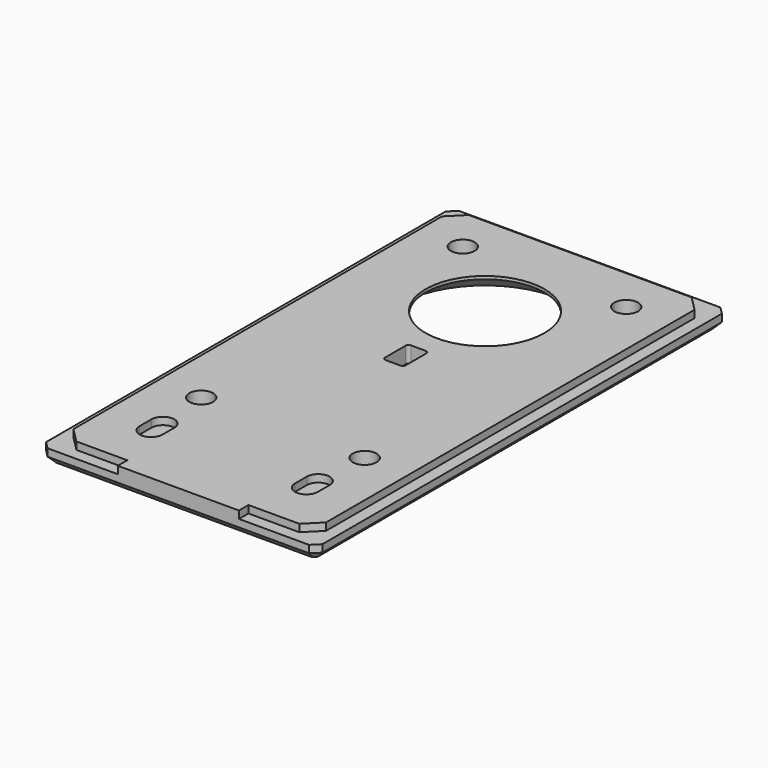
from build123d import *

# Parameters (mm, degrees)
PAD007_DEPTH     = 0.5
PAD008_DEPTH     = 1
SKETCH013_W      = 8.15
SKETCH013_H      = 0.5
PAD009_DEPTH     = 0.8
CHAMFER002_SIZE  = 0.5
HOLE_D           = 1.6
HOLE_DEPTH       = 25
HOLE_CSINK_D     = 2.5
HOLE_CSINK_ANGLE = 90
POCKET003_DEPTH  = 1.1
SKETCH016_R      = 4
POCKET004_DEPTH  = 5
POCKET005_DEPTH  = 0.5
CHAMFER006_SIZE2 = 1.3
CHAMFER006_SIZE  = 1.8


with BuildPart() as part:
    # Sketch011 (on Face14 of Binder001) → Pad007 (new body)
    with BuildSketch(Plane(origin=(0, 0, 0), x_dir=(1, 0, 0), z_dir=(0, 0, -1))):
        Polygon((16, -31), (16, 0), (15, 1), (0, 1), (-1, 0), (-1, -31), (0, -32), (15, -32), align=None)
    extrude(amount=PAD007_DEPTH)

    # Sketch012 (on Face10 of Pad007) → Pad008 (join)
    with BuildSketch(Plane(origin=(0, 0, -0.5), x_dir=(1, 0, 0), z_dir=(0, 0, -1))):
        Polygon((-1.3, 1.8), (-1.8, 1.3), (-1.8, -32.3), (-1.3, -32.8), (16.3, -32.8), (16.8, -32.3), (16.8, 1.3), (16.3, 1.8), align=None)
    extrude(amount=PAD008_DEPTH)

    # Sketch013 (on Face7 of Pad008) → Pad009 (join)
    with BuildSketch(Plane.XZ.offset(1)):
        with Locations((7.5, -0.25)):
            Rectangle(SKETCH013_W, SKETCH013_H)
    extrude(amount=PAD009_DEPTH)

    # Chamfer002
    chamfer002_edges = [part.edges().sort_by_distance(p)[0] for p in [
        (-1.55, -1.55, -1.5),
        (-1.8, 15.5, -1.5),
        (-1.55, 32.55, -1.5),
        (7.5, 32.8, -1.5),
        (16.55, 32.55, -1.5),
        (16.8, 15.5, -1.5),
        (16.55, -1.55, -1.5),
        (7.5, -1.8, -1.5),
    ]]
    chamfer(chamfer002_edges, length=CHAMFER002_SIZE)

    # Hole
    with Locations(Plane(origin=(0, 0, -1.5), x_dir=(1, 0, 0), z_dir=(0, 0, -1))):
        with Locations((2, -7), (13, -7), (2, -29), (13, -29)):
            CounterSinkHole(HOLE_D / 2, HOLE_CSINK_D / 2, depth=HOLE_DEPTH, counter_sink_angle=HOLE_CSINK_ANGLE)

    # Sketch015 (on Face9 of Hole) → Pocket003 (cut)
    with BuildSketch(Plane.XY):
        with BuildLine():
            Line((8.1, 16.58), (8.1, 18.32))
            ThreePointArc((8.1, 18.32), (8.041421, 18.461421), (7.9, 18.52))
            Line((7.9, 18.52), (6.9, 18.52))
            ThreePointArc((6.9, 18.52), (6.758579, 18.461421), (6.7, 18.32))
            Line((6.7, 18.32), (6.7, 16.58))
            ThreePointArc((6.7, 16.58), (6.758579, 16.438579), (6.9, 16.38))
            Line((6.9, 16.38), (7.9, 16.38))
            ThreePointArc((7.9, 16.38), (8.041421, 16.438579), (8.1, 16.58))
        make_face()
    extrude(amount=-POCKET003_DEPTH, mode=Mode.SUBTRACT)

    # Sketch016 (on Face11 of Pocket003) → Pocket004 (cut)
    with BuildSketch(Plane(origin=(0, 0, -1.5), x_dir=(1, 0, 0), z_dir=(0, 0, -1))):
        with Locations((7.5, -24)):
            Circle(SKETCH016_R)
    extrude(amount=-POCKET004_DEPTH, mode=Mode.SUBTRACT)

    # Sketch017 → Pocket005 (cut)
    with BuildSketch(Plane.XY):
        with BuildLine():
            ThreePointArc((3.045, 3.435), (2.275, 4.205), (1.505, 3.435))
            Line((1.505, 3.435), (1.505, 2.445))
            ThreePointArc((1.505, 2.445), (2.275, 1.675), (3.045, 2.445))
            Line((3.045, 3.435), (3.045, 2.445))
        make_face()
        with BuildLine():
            ThreePointArc((13.495, 3.435), (12.725, 4.205), (11.955, 3.435))
            Line((11.955, 3.435), (11.955, 2.445))
            ThreePointArc((11.955, 2.445), (12.725, 1.675), (13.495, 2.445))
            Line((13.495, 3.435), (13.495, 2.445))
        make_face()
    extrude(amount=-POCKET005_DEPTH, mode=Mode.SUBTRACT)

    # Chamfer006
    chamfer006_edges = [part.edges().sort_by_distance(p)[0] for p in [
        (3.5, 24, -1.5),
    ]]
    chamfer006_side = part.faces().sort_by_distance((7.5, 14.586368, -1.5))[0]
    chamfer(chamfer006_edges, length=CHAMFER006_SIZE, length2=CHAMFER006_SIZE2, reference=chamfer006_side)


solid = part.part
